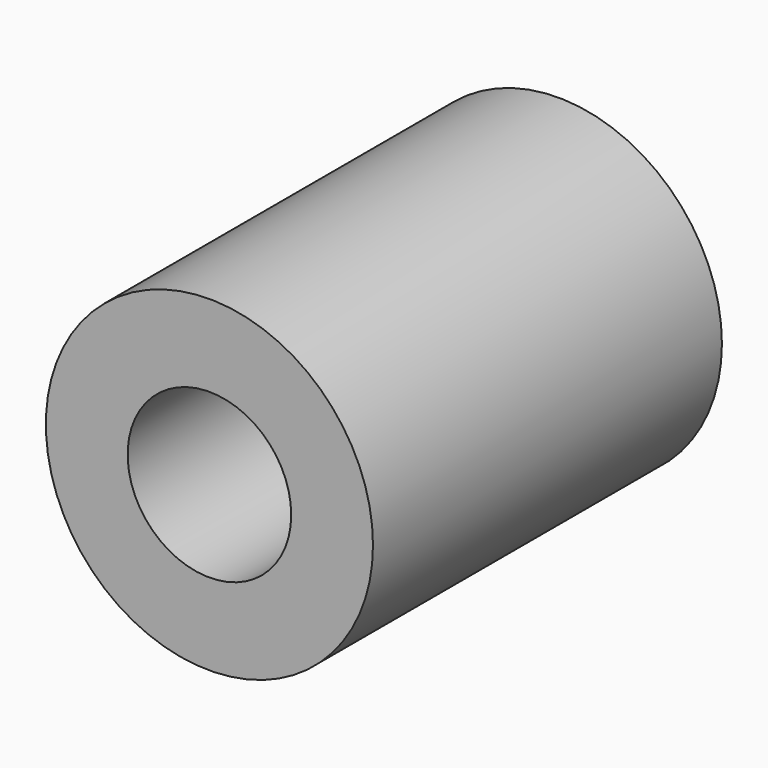
from build123d import *

# Parameters (mm, degrees)
F0_R     = 9.525
F1_DEPTH = 25.4
F3_R     = 4.7625
F4_DEPTH = 25.401
F2_W     = 9.525
F2_H     = 9.525
F5_DEPTH = 11.0998
F7_DEPTH = 9.525


with BuildPart() as f1:
    # F0 (on Front) → F1 (new body)
    with BuildSketch(Plane.XZ):
        Circle(F0_R)
    extrude(amount=F1_DEPTH)

    # F3 (on Front) → F4 (cut, through all)
    with BuildSketch(Plane.XZ):
        Circle(F3_R)
    extrude(amount=F4_DEPTH, mode=Mode.SUBTRACT)

    # F2 (on Front) → F5 (cut)
    with BuildSketch(Plane.XZ):
        Rectangle(F2_W, F2_H)
    extrude(amount=F5_DEPTH, mode=Mode.SUBTRACT)

    # F6 (on face) → F7 (cut)
    with BuildSketch(Plane(origin=(0, 0, 0), x_dir=(-1, 0, 0), z_dir=(0, 1, 0))):
        Polygon((-1.803239, 7.3911), (-7.3025, 2.1339), (-5.499261, -5.257201), (1.803239, -7.3911), (7.3025, -2.1339), (5.499261, 5.257201), align=None)
    extrude(amount=-F7_DEPTH, mode=Mode.SUBTRACT)


solid = f1.part
